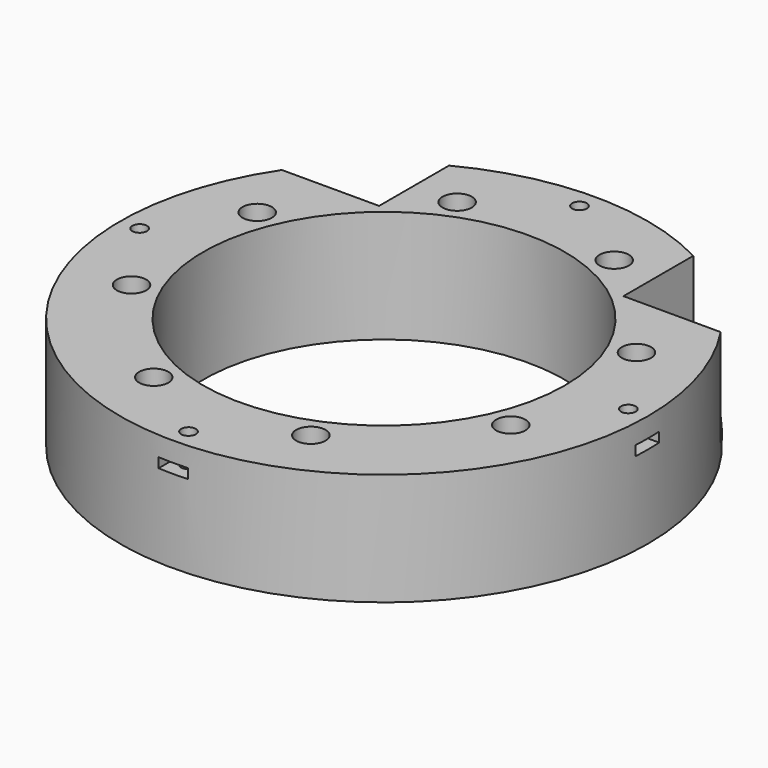
from build123d import *

# Parameters (mm, degrees)
BOX458_W                    = 10
BOX458_H                    = 6
BOX458_DEPTH                = 2
BOX457_W                    = 10
BOX457_H                    = 6
BOX457_DEPTH                = 2
BOX459_W                    = 10
BOX459_H                    = 6
BOX459_DEPTH                = 2
BOX460_W                    = 10
BOX460_H                    = 6
BOX460_DEPTH                = 2
CYLINDER959_R               = 1.5
CYLINDER959_DEPTH           = 30
CYLINDER961_R               = 1.5
CYLINDER961_DEPTH           = 30
CYLINDER962_R               = 1.5
CYLINDER962_DEPTH           = 30
CYLINDER960_R               = 1.5
CYLINDER960_DEPTH           = 30
CYLINDER943_R               = 3
CYLINDER943_DEPTH           = 6
CYLINDER943_PLACEMENT_ANGLE = 45
CYLINDER945_R               = 3
CYLINDER945_DEPTH           = 6
CYLINDER947_R               = 3
CYLINDER947_DEPTH           = 6
CYLINDER947_PLACEMENT_ANGLE = 135
CYLINDER942_R               = 3
CYLINDER942_DEPTH           = 6
CYLINDER944_R               = 3
CYLINDER944_DEPTH           = 6
CYLINDER944_PLACEMENT_ANGLE = 225
CYLINDER946_R               = 3
CYLINDER946_DEPTH           = 6
CYLINDER941_R               = 3
CYLINDER941_DEPTH           = 6
CYLINDER941_PLACEMENT_ANGLE = 45
CYLINDER940_R               = 3
CYLINDER940_DEPTH           = 6
COMPOUND804_PLACEMENT_ANGLE = 22.5
CYLINDER934_R               = 1.5
CYLINDER934_DEPTH           = 40
CYLINDER934_PLACEMENT_ANGLE = 45
CYLINDER938_R               = 1.5
CYLINDER938_DEPTH           = 40
CYLINDER933_R               = 1.5
CYLINDER933_DEPTH           = 40
CYLINDER933_PLACEMENT_ANGLE = 135
CYLINDER935_R               = 1.5
CYLINDER935_DEPTH           = 40
CYLINDER939_R               = 1.5
CYLINDER939_DEPTH           = 40
CYLINDER939_PLACEMENT_ANGLE = 225
CYLINDER936_R               = 1.5
CYLINDER936_DEPTH           = 40
CYLINDER932_R               = 1.5
CYLINDER932_DEPTH           = 40
CYLINDER932_PLACEMENT_ANGLE = 45
CYLINDER937_R               = 1.5
CYLINDER937_DEPTH           = 40
COMPOUND803_PLACEMENT_ANGLE = 22.5
BOX435_W                    = 20
BOX435_H                    = 200
BOX435_DEPTH                = 20
BOX436_W                    = 20
BOX436_H                    = 200
BOX436_DEPTH                = 20
TUBE041_R                   = 54
TUBE041_R_2                 = 37
TUBE041_DEPTH               = 23


with BuildPart() as krychle458:
    # Box458 → Box458 (new body)
    with BuildSketch(Plane(origin=(55, 3, 54), x_dir=(-1, 0, 0), z_dir=(0, 0, 1))):
        with Locations((5, 3)):
            Rectangle(BOX458_W, BOX458_H)
    extrude(amount=BOX458_DEPTH)


with BuildPart() as krychle457:
    # Box457 → Box457 (new body)
    with BuildSketch(Plane(origin=(3, -55, 54), x_dir=(0, 1, 0), z_dir=(0, 0, 1))):
        with Locations((5, 3)):
            Rectangle(BOX457_W, BOX457_H)
    extrude(amount=BOX457_DEPTH)


with BuildPart() as krychle459:
    # Box459 → Box459 (new body)
    with BuildSketch(Plane(origin=(-55, -3, 54), x_dir=(1, 0, 0), z_dir=(0, 0, 1))):
        with Locations((5, 3)):
            Rectangle(BOX459_W, BOX459_H)
    extrude(amount=BOX459_DEPTH)


with BuildPart() as compound815:
    # Box460 → Box460 (new body)
    with BuildSketch(Plane(origin=(-3, 55, 54), x_dir=(0, -1, 0), z_dir=(0, 0, 1))):
        with Locations((5, 3)):
            Rectangle(BOX460_W, BOX460_H)
    extrude(amount=BOX460_DEPTH)

    # Compound815: union Krychle458, Krychle457, Krychle459
    add(krychle458.part)
    add(krychle457.part)
    add(krychle459.part)


with BuildPart() as obj1:
    # Cylinder959 → Cylinder959 (new body)
    with BuildSketch(Plane(origin=(50, 0, 35.5), x_dir=(-1, 0, 0), z_dir=(0, 0, 1))):
        Circle(CYLINDER959_R)
    extrude(amount=CYLINDER959_DEPTH)


with BuildPart() as obj2:
    # Cylinder961 → Cylinder961 (new body)
    with BuildSketch(Plane(origin=(0, -50, 35.5), x_dir=(0, 1, 0), z_dir=(0, 0, 1))):
        Circle(CYLINDER961_R)
    extrude(amount=CYLINDER961_DEPTH)


with BuildPart() as obj3:
    # Cylinder962 → Cylinder962 (new body)
    with BuildSketch(Plane(origin=(-50, 0, 35.5), x_dir=(1, 0, 0), z_dir=(0, 0, 1))):
        Circle(CYLINDER962_R)
    extrude(amount=CYLINDER962_DEPTH)


with BuildPart() as compound814:
    # Cylinder960 → Cylinder960 (new body)
    with BuildSketch(Plane(origin=(0, 50, 35.5), x_dir=(0, -1, 0), z_dir=(0, 0, 1))):
        Circle(CYLINDER960_R)
    extrude(amount=CYLINDER960_DEPTH)

    # Compound814: union obj1, obj2, obj3
    add(obj1.part)
    add(obj2.part)
    add(obj3.part)


with BuildPart() as obj4:
    # Cylinder943 → Cylinder943 (new body)
    with BuildSketch(Plane.XY):
        Circle(CYLINDER943_R)
    extrude(amount=CYLINDER943_DEPTH)


with BuildPart() as obj4_1:
    # Cylinder943 placement: moved
    add(obj4.part.moved(Location((29.698485, -29.698485, 33.5))).rotate(Axis((29.698485, -29.698485, 33.5), (0, 0, 1)), CYLINDER943_PLACEMENT_ANGLE))


with BuildPart() as obj5:
    # Cylinder945 → Cylinder945 (new body)
    with BuildSketch(Plane(origin=(42, 0, 33.5), x_dir=(0, 1, 0), z_dir=(0, 0, 1))):
        Circle(CYLINDER945_R)
    extrude(amount=CYLINDER945_DEPTH)


with BuildPart() as obj6:
    # Cylinder947 → Cylinder947 (new body)
    with BuildSketch(Plane.XY):
        Circle(CYLINDER947_R)
    extrude(amount=CYLINDER947_DEPTH)


with BuildPart() as obj6_1:
    # Cylinder947 placement: moved
    add(obj6.part.moved(Location((29.698485, 29.698485, 33.5))).rotate(Axis((29.698485, 29.698485, 33.5), (0, 0, 1)), CYLINDER947_PLACEMENT_ANGLE))


with BuildPart() as obj7:
    # Cylinder942 → Cylinder942 (new body)
    with BuildSketch(Plane(origin=(0, 42, 33.5), x_dir=(-1, 0, 0), z_dir=(0, 0, 1))):
        Circle(CYLINDER942_R)
    extrude(amount=CYLINDER942_DEPTH)


with BuildPart() as obj8:
    # Cylinder944 → Cylinder944 (new body)
    with BuildSketch(Plane.XY):
        Circle(CYLINDER944_R)
    extrude(amount=CYLINDER944_DEPTH)


with BuildPart() as obj8_1:
    # Cylinder944 placement: moved
    add(obj8.part.moved(Location((-29.698485, 29.698485, 33.5))).rotate(Axis((-29.698485, 29.698485, 33.5), (0, 0, 1)), CYLINDER944_PLACEMENT_ANGLE))


with BuildPart() as obj9:
    # Cylinder946 → Cylinder946 (new body)
    with BuildSketch(Plane(origin=(-42, 0, 33.5), x_dir=(0, -1, 0), z_dir=(0, 0, 1))):
        Circle(CYLINDER946_R)
    extrude(amount=CYLINDER946_DEPTH)


with BuildPart() as obj10:
    # Cylinder941 → Cylinder941 (new body)
    with BuildSketch(Plane.XY):
        Circle(CYLINDER941_R)
    extrude(amount=CYLINDER941_DEPTH)


with BuildPart() as obj10_1:
    # Cylinder941 placement: moved
    add(obj10.part.moved(Location((-29.698485, -29.698485, 33.5))).rotate(Axis((-29.698485, -29.698485, 33.5), (0, 0, -1)), CYLINDER941_PLACEMENT_ANGLE))


with BuildPart() as compound804:
    # Cylinder940 → Cylinder940 (new body)
    with BuildSketch(Plane(origin=(0, -42, 33.5), x_dir=(1, 0, 0), z_dir=(0, 0, 1))):
        Circle(CYLINDER940_R)
    extrude(amount=CYLINDER940_DEPTH)

    # Compound804: union obj4, obj5, obj6, obj7, obj8, obj9, obj10
    add(obj4_1.part)
    add(obj5.part)
    add(obj6_1.part)
    add(obj7.part)
    add(obj8_1.part)
    add(obj9.part)
    add(obj10_1.part)


with BuildPart() as compound804_1:
    # Compound804 placement: moved
    add(compound804.part.moved(Location((0, 0, 21))).rotate(Axis((0, 0, 21), (0, 0, 1)), COMPOUND804_PLACEMENT_ANGLE))


with BuildPart() as obj11:
    # Cylinder934 → Cylinder934 (new body)
    with BuildSketch(Plane.XY):
        Circle(CYLINDER934_R)
    extrude(amount=CYLINDER934_DEPTH)


with BuildPart() as obj11_1:
    # Cylinder934 placement: moved
    add(obj11.part.moved(Location((29.698485, -29.698485, 33.5))).rotate(Axis((29.698485, -29.698485, 33.5), (0, 0, 1)), CYLINDER934_PLACEMENT_ANGLE))


with BuildPart() as obj12:
    # Cylinder938 → Cylinder938 (new body)
    with BuildSketch(Plane(origin=(42, 0, 33.5), x_dir=(0, 1, 0), z_dir=(0, 0, 1))):
        Circle(CYLINDER938_R)
    extrude(amount=CYLINDER938_DEPTH)


with BuildPart() as obj13:
    # Cylinder933 → Cylinder933 (new body)
    with BuildSketch(Plane.XY):
        Circle(CYLINDER933_R)
    extrude(amount=CYLINDER933_DEPTH)


with BuildPart() as obj13_1:
    # Cylinder933 placement: moved
    add(obj13.part.moved(Location((29.698485, 29.698485, 33.5))).rotate(Axis((29.698485, 29.698485, 33.5), (0, 0, 1)), CYLINDER933_PLACEMENT_ANGLE))


with BuildPart() as obj14:
    # Cylinder935 → Cylinder935 (new body)
    with BuildSketch(Plane(origin=(0, 42, 33.5), x_dir=(-1, 0, 0), z_dir=(0, 0, 1))):
        Circle(CYLINDER935_R)
    extrude(amount=CYLINDER935_DEPTH)


with BuildPart() as obj15:
    # Cylinder939 → Cylinder939 (new body)
    with BuildSketch(Plane.XY):
        Circle(CYLINDER939_R)
    extrude(amount=CYLINDER939_DEPTH)


with BuildPart() as obj15_1:
    # Cylinder939 placement: moved
    add(obj15.part.moved(Location((-29.698485, 29.698485, 33.5))).rotate(Axis((-29.698485, 29.698485, 33.5), (0, 0, 1)), CYLINDER939_PLACEMENT_ANGLE))


with BuildPart() as obj16:
    # Cylinder936 → Cylinder936 (new body)
    with BuildSketch(Plane(origin=(-42, 0, 33.5), x_dir=(0, -1, 0), z_dir=(0, 0, 1))):
        Circle(CYLINDER936_R)
    extrude(amount=CYLINDER936_DEPTH)


with BuildPart() as obj17:
    # Cylinder932 → Cylinder932 (new body)
    with BuildSketch(Plane.XY):
        Circle(CYLINDER932_R)
    extrude(amount=CYLINDER932_DEPTH)


with BuildPart() as obj17_1:
    # Cylinder932 placement: moved
    add(obj17.part.moved(Location((-29.698485, -29.698485, 33.5))).rotate(Axis((-29.698485, -29.698485, 33.5), (0, 0, -1)), CYLINDER932_PLACEMENT_ANGLE))


with BuildPart() as compound803:
    # Cylinder937 → Cylinder937 (new body)
    with BuildSketch(Plane(origin=(0, -42, 33.5), x_dir=(1, 0, 0), z_dir=(0, 0, 1))):
        Circle(CYLINDER937_R)
    extrude(amount=CYLINDER937_DEPTH)

    # Compound803: union obj11, obj12, obj13, obj14, obj15, obj16, obj17
    add(obj11_1.part)
    add(obj12.part)
    add(obj13_1.part)
    add(obj14.part)
    add(obj15_1.part)
    add(obj16.part)
    add(obj17_1.part)


with BuildPart() as compound803_1:
    # Compound803 placement: moved
    add(compound803.part.rotate(Axis((0, 0, 0), (0, 0, 1)), COMPOUND803_PLACEMENT_ANGLE))


with BuildPart() as krychle435:
    # Box435 → Box435 (new body)
    with BuildSketch(Plane(origin=(-45, 28, 8), x_dir=(1, 0, 0), z_dir=(0, 0, 1))):
        with Locations((10, 100)):
            Rectangle(BOX435_W, BOX435_H)
    extrude(amount=BOX435_DEPTH)


with BuildPart() as compound795:
    # Box436 → Box436 (new body)
    with BuildSketch(Plane(origin=(25, 28, 8), x_dir=(1, 0, 0), z_dir=(0, 0, 1))):
        with Locations((10, 100)):
            Rectangle(BOX436_W, BOX436_H)
    extrude(amount=BOX436_DEPTH)

    # Compound795: union Krychle435
    add(krychle435.part)


with BuildPart() as compound795_1:
    # Compound795 placement: moved
    add(compound795.part.moved(Location((0, 2, 32))))


with BuildPart() as cut407:
    # Tube041 → Tube041 (new body)
    with BuildSketch(Plane.XY.offset(37)):
        Circle(TUBE041_R)
        Circle(TUBE041_R_2, mode=Mode.SUBTRACT)
    extrude(amount=TUBE041_DEPTH)

    # Cut393: cut Compound795
    add(compound795_1.part, mode=Mode.SUBTRACT)

    # Cut395: cut Compound803
    add(compound803_1.part, mode=Mode.SUBTRACT)

    # Cut396: cut Compound804
    add(compound804_1.part, mode=Mode.SUBTRACT)

    # Cut406: cut Compound814
    add(compound814.part, mode=Mode.SUBTRACT)

    # Cut407: cut Compound815
    add(compound815.part, mode=Mode.SUBTRACT)


solid = cut407.part
